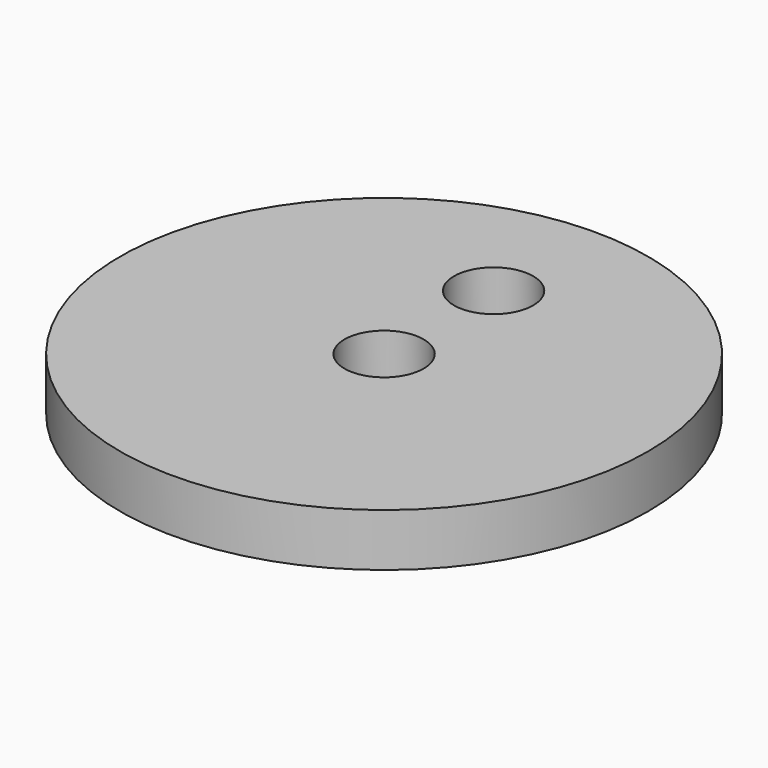
from build123d import *

# Parameters (mm, degrees)
F0_R     = 50
F2_DEPTH = 10
F4_D     = 15
F6_D     = 15


with BuildPart() as f2:
    # F0 (on Top) → F2 (new body)
    with BuildSketch(Plane.XY):
        Circle(F0_R)
    extrude(amount=F2_DEPTH)

    # F4 (through all)
    with Locations(Plane.XY.offset(10)):
        with Locations((0, 25.931375)):
            Hole(F4_D / 2)

    # F6 (through all)
    with Locations(Plane(origin=(0, 0, 0), x_dir=(1, 0, 0), z_dir=(0, 0, -1))):
        with Locations((0, 0)):
            Hole(F6_D / 2)


solid = f2.part
